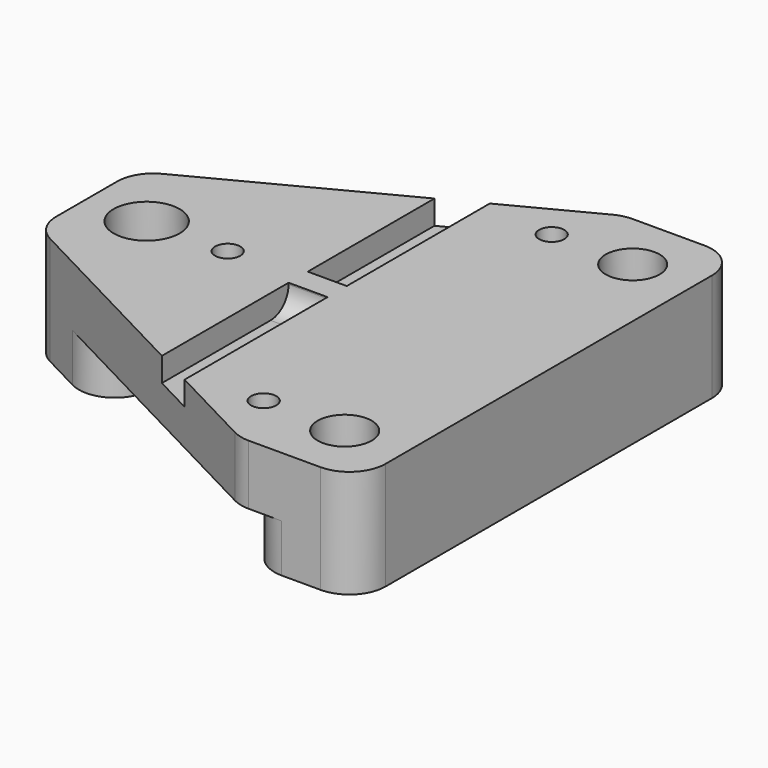
from build123d import *

# Parameters (mm, degrees)
SKETCH_R        = 3.6
SKETCH_R_2      = 2.6
PAD_DEPTH       = 18
SKETCH001_R     = 3.6
POCKET_DEPTH    = 3
SKETCH002_W     = 40
SKETCH002_H     = 100
POCKET001_DEPTH = 8
SKETCH003_R     = 5.5
SKETCH003_R_2   = 4.5
POCKET002_DEPTH = 6
FILLET_R        = 6
FILLET001_R     = 6
SKETCH004_W     = 6.5
SKETCH004_H     = 33
POCKET003_DEPTH = 4
SKETCH005_R     = 2.1
POCKET004_DEPTH = 10
FILLET002_R     = 3.75


with BuildPart() as part:
    # Sketch → Pad (new body)
    with BuildSketch(Plane.XY):
        Polygon((-38.5, 0), (-38.5, 10), (19, 40), (38.5, 40), (38.5, 0), (38.5, -40), (19, -40), (-38.5, -10), align=None)
        with Locations((-28.5, 0)):
            Circle(SKETCH_R, mode=Mode.SUBTRACT)
        with Locations((28.5, -30)):
            Circle(SKETCH_R_2, mode=Mode.SUBTRACT)
        with Locations((28.5, 30)):
            Circle(SKETCH_R_2, mode=Mode.SUBTRACT)
    extrude(amount=PAD_DEPTH)

    # Sketch001 (on Face3 of Pad) → Pocket (cut)
    with BuildSketch(Plane(origin=(0, 0, 0), x_dir=(1, 0, 0), z_dir=(0, 0, -1))):
        with Locations((-28.5, 0)):
            Circle(SKETCH001_R)
    extrude(amount=-POCKET_DEPTH, mode=Mode.SUBTRACT)

    # Sketch002 (on Face3 of Pocket) → Pocket001 (cut)
    with BuildSketch(Plane(origin=(0, 0, 0), x_dir=(1, 0, 0), z_dir=(0, 0, -1))):
        Rectangle(SKETCH002_W, SKETCH002_H)
    extrude(amount=-POCKET001_DEPTH, mode=Mode.SUBTRACT)

    # Sketch003 (on Face6 of Pocket001) → Pocket002 (cut)
    with BuildSketch(Plane.XY.offset(18)):
        with Locations((-28.5, 0)):
            Circle(SKETCH003_R)
        with Locations((28.5, 30)):
            Circle(SKETCH003_R_2)
        with Locations((28.5, -30)):
            Circle(SKETCH003_R_2)
    extrude(amount=-POCKET002_DEPTH, mode=Mode.SUBTRACT)

    # Fillet
    fillet_edges = [part.edges().sort_by_distance(p)[0] for p in [
        (20, -40, 4),
        (20, 40, 4),
        (-20, -19.652174, 4),
        (-20, 19.652174, 4),
    ]]
    fillet(fillet_edges, radius=FILLET_R)

    # Fillet001
    fillet001_edges = [part.edges().sort_by_distance(p)[0] for p in [
        (-38.5, 10, 9),
        (-38.5, -10, 9),
        (19, 40, 13),
        (38.5, 40, 9),
        (38.5, -40, 9),
        (19, -40, 13),
    ]]
    fillet(fillet001_edges, radius=FILLET001_R)

    # Sketch004 (on Face5 of Fillet001) → Pocket003 (cut)
    with BuildSketch(Plane.XY.offset(18)):
        with Locations((0, -18.5)):
            Rectangle(SKETCH004_W, SKETCH004_H)
        with Locations((0, 18.5)):
            Rectangle(SKETCH004_W, SKETCH004_H)
    extrude(amount=-POCKET003_DEPTH, mode=Mode.SUBTRACT)

    # Sketch005 (on Face6 of Pocket003) → Pocket004 (cut)
    with BuildSketch(Plane.XY.offset(18)):
        with Locations((-15, 0)):
            Circle(SKETCH005_R)
        with Locations((15, -30)):
            Circle(SKETCH005_R)
        with Locations((15, 30)):
            Circle(SKETCH005_R)
    extrude(amount=-POCKET004_DEPTH, mode=Mode.SUBTRACT)

    # Fillet002
    fillet002_edges = [part.edges().sort_by_distance(p)[0] for p in [
        (0, -2, 14),
        (0, 2, 14),
    ]]
    fillet(fillet002_edges, radius=FILLET002_R)


solid = part.part
